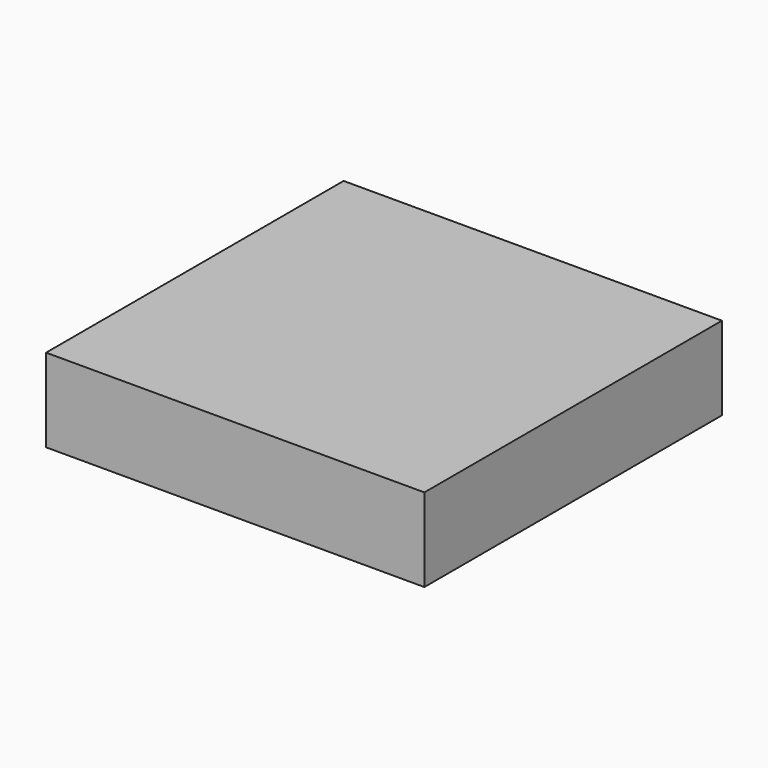
from build123d import *

# Parameters (mm, degrees)
F0_W     = 749.3
F0_H     = 736.6
F1_DEPTH = 165.1
F2_T     = -19.05
F3_W     = 711.2
F3_H     = 38.1
F4_DEPTH = 25.4
F5_W     = 711.2
F5_H     = 44.45
F6_DEPTH = 19.05


with BuildPart() as f1:
    # F0 (on Top) → F1 (new body)
    with BuildSketch(Plane.XY):
        with Locations((-17.17346, 171.873332)):
            Rectangle(F0_W, F0_H)
    extrude(amount=F1_DEPTH)

    # F2
    f2_openings = [f1.faces().sort_by_distance(p)[0] for p in [
        (-17.17346, 171.873332, 0),
    ]]
    offset(amount=F2_T, openings=f2_openings)

    # F3 (on face) → F4 (join)
    with BuildSketch(Plane.XZ.offset(-521.123332)):
        with Locations((-17.17346, 19.05)):
            Rectangle(F3_W, F3_H)
    extrude(amount=F4_DEPTH)

    # F5 (on face) → F6 (join)
    with BuildSketch(Plane(origin=(0, -177.376668, 0), x_dir=(-1, 0, 0), z_dir=(0, 1, 0))):
        with Locations((17.17346, 22.225)):
            Rectangle(F5_W, F5_H)
    extrude(amount=F6_DEPTH)


solid = f1.part
